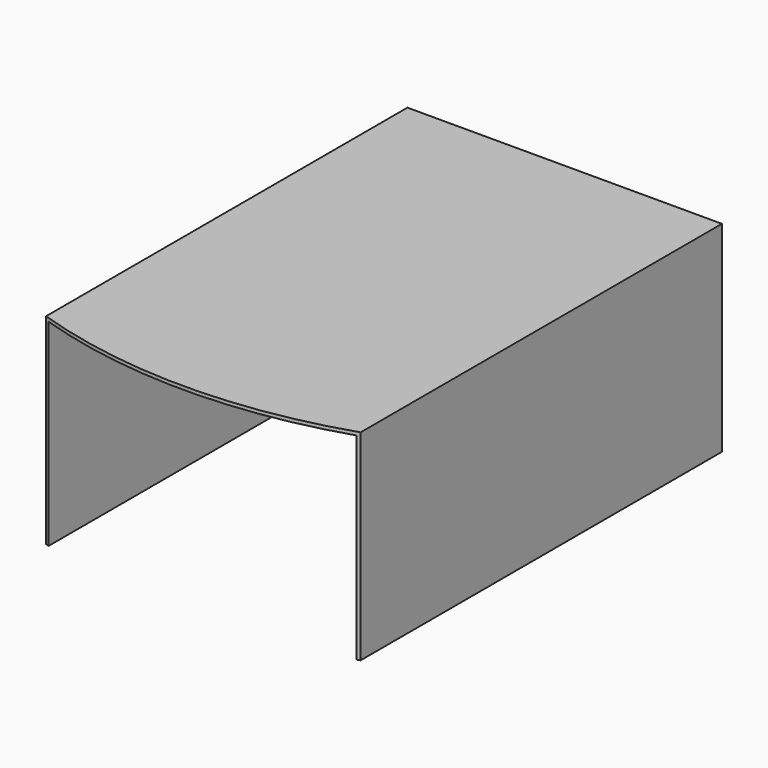
from build123d import *

# Parameters (mm, degrees)
F0_W     = 94
F0_H     = 60
F1_DEPTH = 150
F2_T     = -1
F4_DEPTH = 60.001


with BuildPart() as f1:
    # F0 (on Front) → F1 (new body)
    with BuildSketch(Plane.XZ):
        Rectangle(F0_W, F0_H)
    extrude(amount=F1_DEPTH)

    # F2
    f2_openings = [f1.faces().sort_by_distance(p)[0] for p in [
        (0, -150, 0),
        (0, -75, -30),
    ]]
    offset(amount=F2_T, openings=f2_openings)

    # F3 (on face) → F4 (cut, through all)
    with BuildSketch(Plane.XY.offset(30)):
        with BuildLine():
            Line((47, -150), (47, -135))
            ThreePointArc((47, -135), (0, -142.553519), (-47, -135))
            Line((-47, -135), (-47, -150))
            Line((-47, -150), (47, -150))
        make_face()
    extrude(amount=-F4_DEPTH, mode=Mode.SUBTRACT)


solid = f1.part
